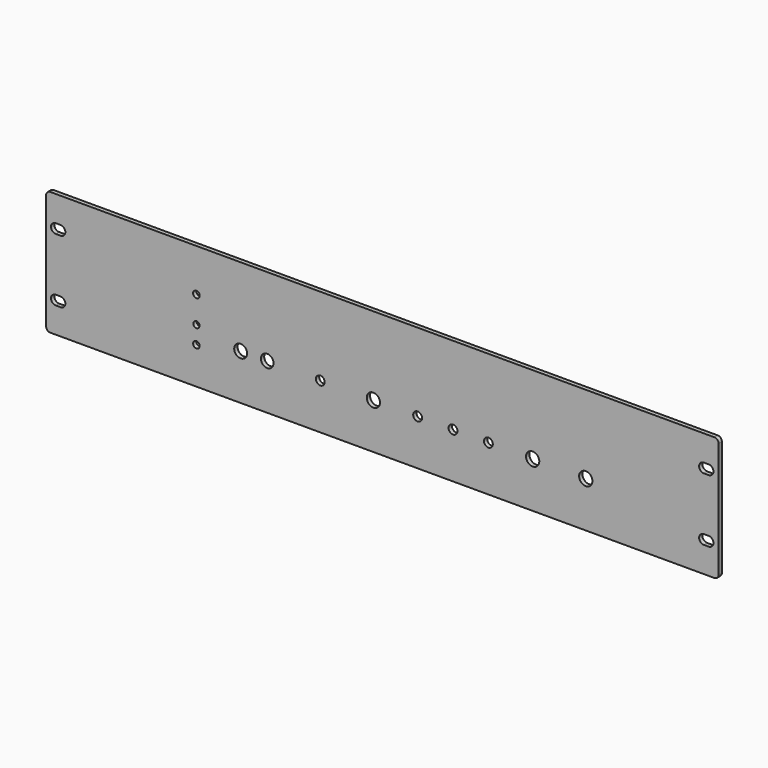
from build123d import *

# Parameters (mm, degrees)
F0_W     = 482.6
F0_H     = 88.9
F1_DEPTH = 3
F2_R     = 3
F3_R     = 2.38125
F3_R_2   = 2.246181
F3_R_3   = 2.383077
F3_R_4   = 4.622163
F3_R_5   = 4.540173
F3_R_6   = 3.175
F3_R_7   = 4.7625
F4_DEPTH = 3


with BuildPart() as f1:
    # F0 (on Front) → F1 (new body)
    with BuildSketch(Plane.XZ):
        with Locations((0.070956, -0.013071)):
            Rectangle(F0_W, F0_H)
    extrude(amount=-F1_DEPTH)

    # F2
    f2_edges = [f1.edges().sort_by_distance(p)[0] for p in [
        (-241.229044, 1.5, 44.436929),
        (241.370956, 1.5, 44.436929),
        (241.370956, 1.5, -44.463071),
        (-241.229044, 1.5, -44.463071),
    ]]
    fillet(f2_edges, radius=F2_R)

    # F3 (on Front) → F4 (cut, through all)
    with BuildSketch(Plane.XZ):
        with BuildLine():
            Line((-234.3, 19.186929), (-230.8, 19.186929))
            ThreePointArc((-230.8, 19.186929), (-227.4, 22.586929), (-230.8, 25.986929))
            Line((-230.8, 25.986929), (-234.3, 25.986929))
            ThreePointArc((-234.3, 25.986929), (-237.7, 22.586929), (-234.3, 19.186929))
        make_face()
        with BuildLine():
            ThreePointArc((230.8, 25.986929), (227.4, 22.586929), (230.8, 19.186929))
            Line((230.8, 19.186929), (234.3, 19.186929))
            ThreePointArc((234.3, 19.186929), (237.7, 22.586929), (234.3, 25.986929))
            Line((234.3, 25.986929), (230.8, 25.986929))
        make_face()
        with BuildLine():
            Line((230.8, -25.986929), (234.3, -25.986929))
            ThreePointArc((234.3, -25.986929), (237.7, -22.586929), (234.3, -19.186929))
            Line((234.3, -19.186929), (230.8, -19.186929))
            ThreePointArc((230.8, -19.186929), (227.4, -22.586929), (230.8, -25.986929))
        make_face()
        with BuildLine():
            ThreePointArc((-230.8, -25.986929), (-227.4, -22.586929), (-230.8, -19.186929))
            Line((-230.8, -19.186929), (-234.3, -19.186929))
            ThreePointArc((-234.3, -19.186929), (-237.7, -22.586929), (-234.3, -25.986929))
            Line((-234.3, -25.986929), (-230.8, -25.986929))
        make_face()
        with Locations((-133.35, 13.767754)):
            Circle(F3_R)
        with Locations((-133.35, -5.282246)):
            Circle(F3_R_2)
        with Locations((-133.35, -17.982246)):
            Circle(F3_R_3)
        with Locations((-101.6, -11.684)):
            Circle(F3_R_4)
        with Locations((-82.55, -11.684)):
            Circle(F3_R_5)
        with Locations((-44.45, -11.684)):
            Circle(F3_R_6)
        with Locations((-6.35, -11.684)):
            Circle(F3_R_7)
        with Locations((25.4, -11.684)):
            Circle(F3_R_6)
        with Locations((50.8, -11.684)):
            Circle(F3_R_6)
        with Locations((76.2, -11.684)):
            Circle(F3_R_6)
        with Locations((107.95, -11.684)):
            Circle(F3_R_7)
        with Locations((146.05, -11.684)):
            Circle(F3_R_7)
    extrude(amount=-F4_DEPTH, mode=Mode.SUBTRACT)


solid = f1.part
